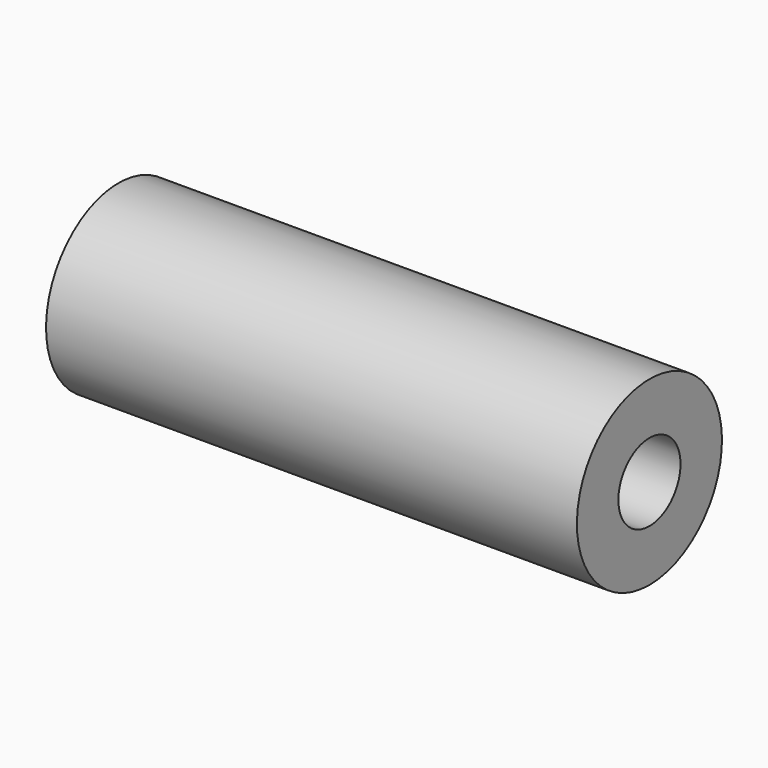
from build123d import *

# Parameters (mm, degrees)
CYLINDER175_R     = 1.5
CYLINDER175_DEPTH = 55
CYLINDER169_R     = 3.5
CYLINDER169_DEPTH = 20.5


with BuildPart() as cylinder175:
    # Cylinder175 → Cylinder175 (new body)
    with BuildSketch(Plane(origin=(92.7, 72.9, 33.1), x_dir=(0, 0, -1), z_dir=(1, 0, 0))):
        Circle(CYLINDER175_R)
    extrude(amount=CYLINDER175_DEPTH)


with BuildPart() as cut208:
    # Cylinder169 → Cylinder169 (new body)
    with BuildSketch(Plane(origin=(99, 72.9, 33.1), x_dir=(0, 0, -1), z_dir=(1, 0, 0))):
        Circle(CYLINDER169_R)
    extrude(amount=CYLINDER169_DEPTH)

    # Cut208: cut Cylinder175
    add(cylinder175.part, mode=Mode.SUBTRACT)


solid = cut208.part
